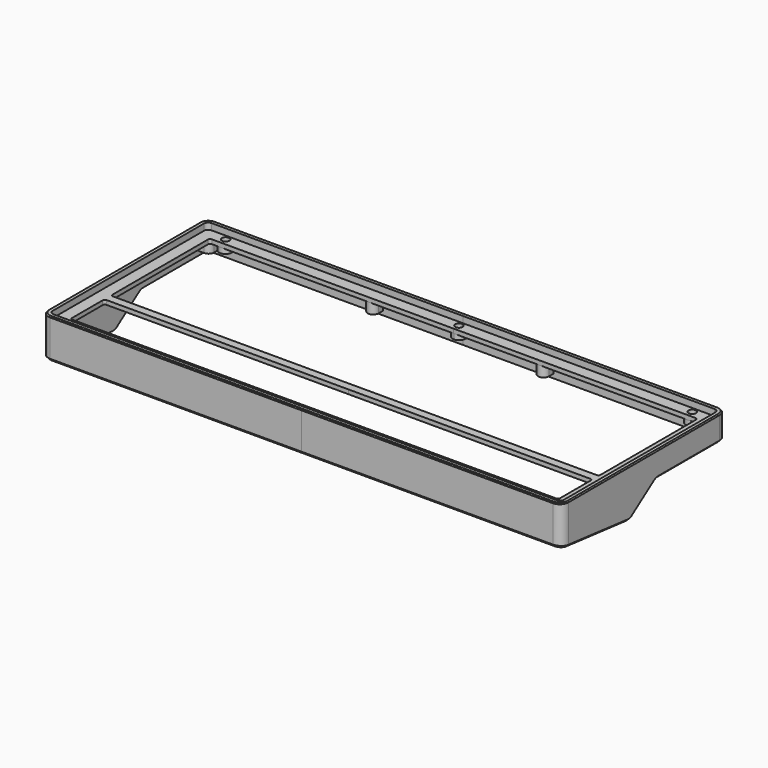
from build123d import *

# Parameters (mm, degrees)
SKETCH010_W     = 122.3
SKETCH010_H     = 96.9625
PAD005_DEPTH    = 7.5
SKETCH011_W     = 122.3
SKETCH011_H     = 96.9625
PAD006_DEPTH    = 4.5
SKETCH012_W     = 114.8
SKETCH012_H     = 58.15
SKETCH012_H_2   = 20.05
POCKET005_DEPTH = 12
SKETCH013_W     = 122.3
SKETCH013_H     = 96.9625
PAD007_DEPTH    = 30
POCKET006_DEPTH = 122.3
POCKET007_DEPTH = 244.6
SKETCH022_W     = 120.3
SKETCH022_H     = 92.9625
POCKET011_DEPTH = 3
SKETCH023_W     = 120.3
SKETCH023_H     = 92.9625
POCKET012_DEPTH = 30
PAD016_DEPTH    = 6
SKETCH044_R     = 1.55
POCKET026_DEPTH = 3.1
POCKET027_DEPTH = 3.2
PAD018_DEPTH    = 2.5
SKETCH047_R     = 1.75
POCKET028_DEPTH = 5
SKETCH051_R     = 6.999832
POCKET029_DEPTH = 5
FILLET_R        = 4
FILLET005_R     = 4
FILLET006_R     = 2
CHAMFER004_SIZE = 1
CHAMFER005_SIZE = 0.5
FILLET009_R     = 1


with BuildPart() as top:
    # Sketch010 → Pad005 (new body)
    with BuildSketch(Plane.XY):
        with Locations((-61.15, 0)):
            Rectangle(SKETCH010_W, SKETCH010_H)
    extrude(amount=PAD005_DEPTH)

    # Sketch011 → Pad006 (join)
    with BuildSketch(Plane.XY):
        with Locations((-61.15, 0)):
            Rectangle(SKETCH011_W, SKETCH011_H)
    extrude(amount=-PAD006_DEPTH)

    # Sketch012 (on DatumPlane) → Pocket005 (cut)
    with BuildSketch(Plane.XY.offset(7.5)):
        with Locations((-57.4, 11.90625)):
            Rectangle(SKETCH012_W, SKETCH012_H)
        with Locations((-57.4, -30.95625)):
            Rectangle(SKETCH012_W, SKETCH012_H_2)
    extrude(amount=-POCKET005_DEPTH, mode=Mode.SUBTRACT)

    # Sketch013 (on DatumPlane) → Pad007 (join)
    with BuildSketch(Plane.XY.offset(-4.5)):
        with Locations((-61.15, 0)):
            Rectangle(SKETCH013_W, SKETCH013_H)
    extrude(amount=-PAD007_DEPTH)

    # Sketch014 (on DatumPlane) → Pocket006 (cut)
    with BuildSketch(Plane.YZ.offset(-122.3)):
        Polygon((-48.48125, -11.1), (43.48125, -20.765648), (46.48125, -14.765648), (46.48125, -4.5), (48.48125, -4.5), (48.48125, -41.1), (-48.48125, -41.1), align=None)
    extrude(amount=POCKET006_DEPTH, mode=Mode.SUBTRACT)

    # Sketch015 (on DatumPlane) → Pocket007 (cut)
    with BuildSketch(Plane.YZ.offset(-122.3)):
        Polygon((7.365535, -4.5), (-18.789183, -23.006033), (54.016232, -23.006033), (67.762299, -16.984863), (69.938868, -4.5), align=None)
    extrude(amount=POCKET007_DEPTH, mode=Mode.SUBTRACT)

    # Sketch022 (on DatumPlane) → Pocket011 (cut)
    with BuildSketch(Plane.XY.offset(7.5)):
        with Locations((-60.15, 0)):
            Rectangle(SKETCH022_W, SKETCH022_H)
    extrude(amount=-POCKET011_DEPTH, mode=Mode.SUBTRACT)

    # Sketch023 (on DatumPlane) → Pocket012 (cut)
    with BuildSketch(Plane.XY.offset(2.5)):
        with Locations((-60.15, 0)):
            Rectangle(SKETCH023_W, SKETCH023_H)
    extrude(amount=-POCKET012_DEPTH, mode=Mode.SUBTRACT)

    # Sketch (on DatumPlane) → Pad016 (join)
    with BuildSketch(Plane.XY.offset(-2.5)):
        with BuildLine():
            ThreePointArc((-117.55, 41.18125), (-115.746878, 41.928128), (-115, 43.73125))
            Line((-115, 43.73125), (-115, 46.48125))
            Line((-115, 46.48125), (-120.3, 46.48125))
            Line((-120.3, 46.48125), (-120.3, 41.18125))
            Line((-120.3, 41.18125), (-117.55, 41.18125))
        make_face()
        with BuildLine():
            ThreePointArc((-115, -43.73125), (-115.746878, -41.928128), (-117.55, -41.18125))
            Line((-120.3, -41.18125), (-117.55, -41.18125))
            Line((-120.3, -46.48125), (-120.3, -41.18125))
            Line((-115, -46.48125), (-120.3, -46.48125))
            Line((-115, -43.73125), (-115, -46.48125))
        make_face()
        with BuildLine():
            ThreePointArc((-42.65, 43.73125), (-40.1, 41.18125), (-37.55, 43.73125))
            Line((-37.55, 43.73125), (-37.55, 46.48125))
            Line((-37.55, 46.48125), (-42.65, 46.48125))
            Line((-42.65, 46.48125), (-42.65, 43.73125))
        make_face()
        with BuildLine():
            ThreePointArc((-37.55, -43.73125), (-40.1, -41.18125), (-42.65, -43.73125))
            Line((-42.65, -43.73125), (-42.65, -46.48125))
            Line((-42.65, -46.48125), (-37.55, -46.48125))
            Line((-37.55, -46.48125), (-37.55, -43.73125))
        make_face()
    extrude(amount=PAD016_DEPTH)

    # Sketch044 (on DatumPlane) → Pocket026 (cut)
    with BuildSketch(Plane.XY.offset(-2.5)):
        with Locations((-117.55, 43.73125)):
            Circle(SKETCH044_R)
        with Locations((-117.55, -43.73125)):
            Circle(SKETCH044_R)
        with Locations((-40.1, -43.73125)):
            Circle(SKETCH044_R)
        with Locations((-40.1, 43.73125)):
            Circle(SKETCH044_R)
    extrude(amount=POCKET026_DEPTH, mode=Mode.SUBTRACT)

    # Sketch044 (on DatumPlane) → Pocket027 (cut)
    with BuildSketch(Plane.XY.offset(-2.5)):
        with Locations((-117.55, 43.73125)):
            Circle(SKETCH044_R)
        with Locations((-117.55, -43.73125)):
            Circle(SKETCH044_R)
        with Locations((-40.1, -43.73125)):
            Circle(SKETCH044_R)
        with Locations((-40.1, 43.73125)):
            Circle(SKETCH044_R)
    extrude(amount=-POCKET027_DEPTH, mode=Mode.SUBTRACT)

    # Sketch046 (on Face10 of Pocket027) → Pad018 (join)
    with BuildSketch(Plane(origin=(0, 0, 2.5), x_dir=(1, 0, 0), z_dir=(0, 0, -1))):
        with BuildLine():
            ThreePointArc((-112.8, 44.08125), (-109.8, 41.08125), (-106.8, 44.08125))
            Line((-106.8, 44.08125), (-106.8, 46.48125))
            Line((-106.8, 46.48125), (-112.8, 46.48125))
            Line((-112.8, 46.48125), (-112.8, 44.08125))
        make_face()
        with BuildLine():
            ThreePointArc((-106.8, -44.08125), (-109.8, -41.08125), (-112.8, -44.08125))
            Line((-112.8, -46.48125), (-112.8, -44.08125))
            Line((-106.8, -46.48125), (-112.8, -46.48125))
            Line((-106.8, -44.08125), (-106.8, -46.48125))
        make_face()
        with BuildLine():
            ThreePointArc((-3, 44.08125), (-2.12132, 41.95993), (0, 41.08125))
            Line((0, 41.08125), (0, 46.48125))
            Line((0, 46.48125), (-3, 46.48125))
            Line((-3, 46.48125), (-3, 44.08125))
        make_face()
        with BuildLine():
            ThreePointArc((0, -41.08125), (-2.12132, -41.95993), (-3, -44.08125))
            Line((-3, -46.48125), (-3, -44.08125))
            Line((0, -46.48125), (-3, -46.48125))
            Line((0, -41.08125), (0, -46.48125))
        make_face()
    extrude(amount=PAD018_DEPTH)

    # Sketch047 (on Face63 of Pad018) → Pocket028 (cut)
    with BuildSketch(Plane(origin=(0, 0, 0), x_dir=(1, 0, 0), z_dir=(0, 0, -1))):
        with Locations((-109.8, 44.08125)):
            Circle(SKETCH047_R)
        with Locations((0, 44.08125)):
            Circle(SKETCH047_R)
        with Locations((0, -44.08125)):
            Circle(SKETCH047_R)
        with Locations((-109.8, -44.08125)):
            Circle(SKETCH047_R)
    extrude(amount=-POCKET028_DEPTH, mode=Mode.SUBTRACT)

    # Sketch051 (on Face54 of Pocket028) → Pocket029 (cut)
    with BuildSketch(Plane(origin=(0, 0, 0), x_dir=(1, 0, 0), z_dir=(0, 0, -1))):
        Circle(SKETCH051_R)
    extrude(amount=-POCKET029_DEPTH, mode=Mode.SUBTRACT)

    # Fillet
    fillet_edges = [top.edges().sort_by_distance(p)[0] for p in [
        (-121.3, -7.978727, -15.356987),
        (-121.3, 7.365535, -4.5),
    ]]
    fillet(fillet_edges, radius=FILLET_R)

    # Fillet005
    fillet005_edges = [top.edges().sort_by_distance(p)[0] for p in [
        (-122.3, 48.48125, 3.75),
        (-122.3, -48.48125, 3.75),
    ]]
    fillet(fillet005_edges, radius=FILLET005_R)

    # Fillet006
    fillet006_edges = [top.edges().sort_by_distance(p)[0] for p in [
        (-120.3, 46.48125, -3.5),
        (-120.3, -46.48125, -6.905104),
        (-120.3, 46.48125, 6),
        (-120.3, -46.48125, 6),
    ]]
    fillet(fillet006_edges, radius=FILLET006_R)

    # Chamfer004
    chamfer004_edges = [top.edges().sort_by_distance(p)[0] for p in [
        (-59.15, -48.48125, -11.1),
    ]]
    chamfer(chamfer004_edges, length=CHAMFER004_SIZE)

    # Chamfer005
    chamfer005_edges = [top.edges().sort_by_distance(p)[0] for p in [
        (-122.3, 0, 7.5),
    ]]
    chamfer(chamfer005_edges, length=CHAMFER005_SIZE)

    # Fillet009
    fillet009_edges = [top.edges().sort_by_distance(p)[0] for p in [
        (-114.8, 40.98125, 3.5),
        (-114.8, -17.16875, 3.5),
        (-114.8, -20.93125, 3.5),
        (-114.8, -40.98125, 3.5),
    ]]
    fillet(fillet009_edges, radius=FILLET009_R)


with BuildPart() as case_top:
    # Part__Mirroring: instance of top
    add(top.part.mirror(Plane(origin=(0, 0, 0), x_dir=(0, -1, 0), z_dir=(1, 0, 0))))

    # Fusion: union top
    add(top.part)


solid = case_top.part
